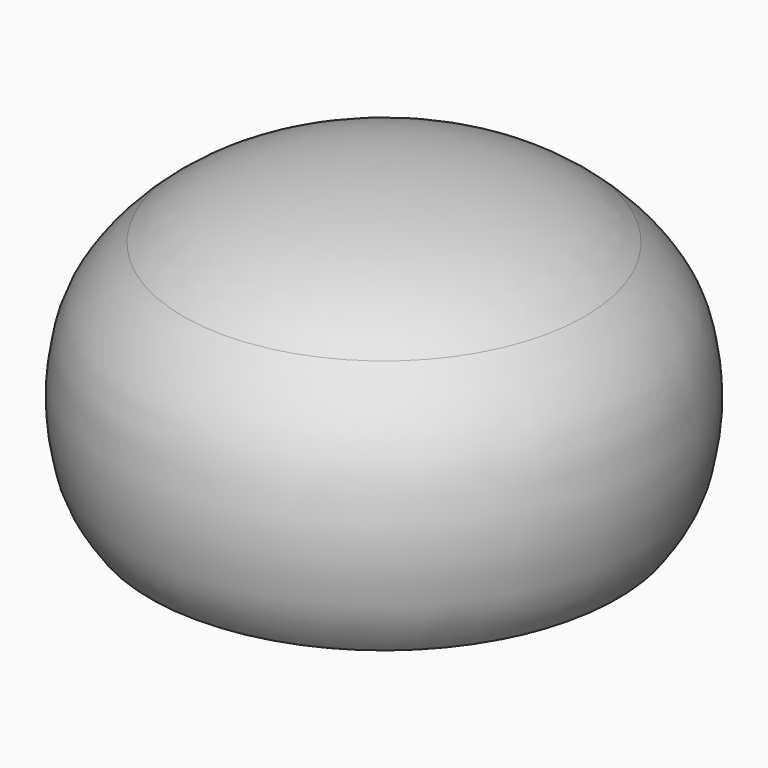
from build123d import *

# Parameters (mm, degrees)
F3_W     = 95.771608833
F3_H     = 47.5379661864
F4_DEPTH = 25


with BuildPart() as f1:
    # F0 (on Right) → F1 (revolve)
    with BuildSketch(Plane.YZ):
        with BuildLine():
            add(Edge.make_bspline(
                [(19.75, 13.3821831615), (21.237399666, 12.1393060117), (23.8659873685, 9.1534115663), (25.6144415243, 5.3592672006), (26, 1.2190777273), (26, 0)],
                knots=[0.4554507581, 0.4554507581, 0.4554507581, 0.4554507581, 0.6135549385, 0.806628053, 1, 1, 1, 1], degree=3))
            Line((19.75, 13.3821831615), (0, 13.3821831615))
            Line((0, 13.3821831615), (0, -19))
            add(Edge.make_bspline(
                [(0, -19), (6.5746450142, -19), (16.5024296504, -17.0796823909), (23.5392256752, -9.8624842254), (25.6144415243, -5.3592672006), (26, -1.2190777273), (26, 0)],
                knots=[0, 0, 0, 0, 0.3536821005, 0.6135549385, 0.806628053, 1, 1, 1, 1], degree=3))
        make_face()
    revolve(axis=Axis((0, 0, 0), (0, 0, -1)))

    # F3 (on Right) → F4 (cut, symmetric)
    with BuildSketch(Plane.YZ):
        with Locations((5.4435413331, -33.7689830932)):
            Rectangle(F3_W, F3_H)
    extrude(amount=F4_DEPTH, both=True, mode=Mode.SUBTRACT)


with BuildPart() as f2:
    # F0 (on Right) → F2 (revolve)
    with BuildSketch(Plane.YZ):
        with BuildLine():
            add(Edge.make_bspline(
                [(0, 19), (6.5746450142, 19), (13.9441840001, 17.5745202979), (18.7925890888, 14.1821995739), (19.75, 13.3821831615)],
                knots=[0, 0, 0, 0, 0.3536821005, 0.4554507581, 0.4554507581, 0.4554507581, 0.4554507581], degree=3))
            Line((0, 19), (0, 13.3821831615))
            Line((0, 13.3821831615), (19.75, 13.3821831615))
        make_face()
    revolve(axis=Axis((0, 0, 0), (0, 0, -1)))


solid = Compound([f1.part, f2.part])
